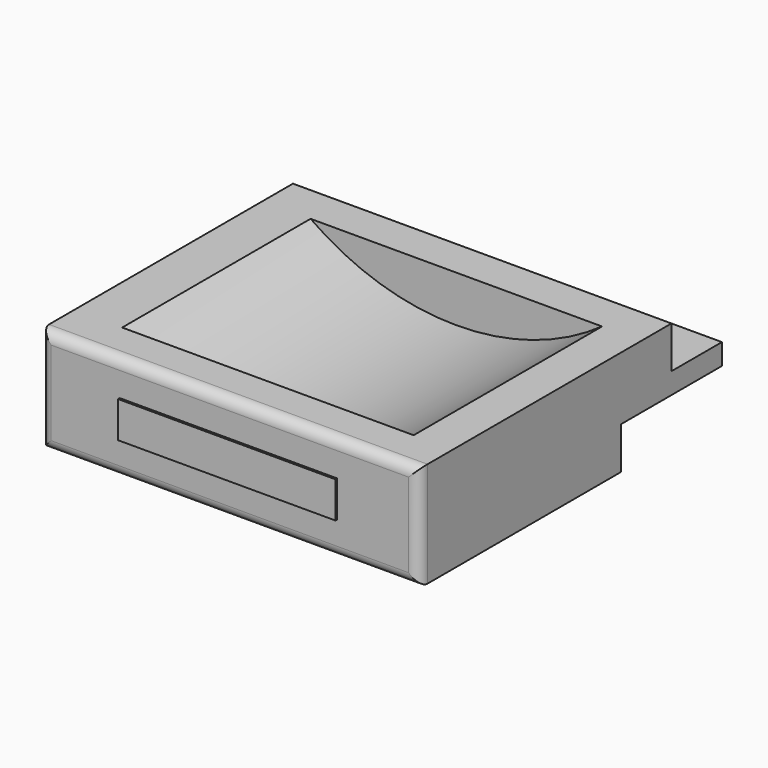
from build123d import *

# Parameters (mm, degrees)
F0_W      = 457.2
F0_H      = 127
F1_DEPTH  = 457.2
F2_R      = 12.7
F3_W      = 457.2
F3_H      = 76.2
F4_DEPTH  = 50.8
F6_START  = -50.8
F6_DEPTH  = 284.48
F7_W      = 262.5275105238
F7_H      = 43.7741912901
F8_DEPTH  = 2.54
F9_W      = 457.2
F9_H      = 152.4
F10_DEPTH = 50.8


with BuildPart() as f1:
    # F0 (on Front) → F1 (new body)
    with BuildSketch(Plane.XZ):
        with Locations((-5.2937921137, -6.7845043319)):
            Rectangle(F0_W, F0_H)
    extrude(amount=F1_DEPTH)

    # F2
    f2_edges = [f1.edges().sort_by_distance(p)[0] for p in [
        (-5.293792, -457.2, 56.715496),
        (-233.893792, -457.2, -6.784504),
        (-5.293792, -457.2, -70.284504),
        (223.306208, -457.2, -6.784504),
    ]]
    fillet(f2_edges, radius=F2_R)

    # F3 (on face) → F4 (cut)
    with BuildSketch(Plane.XY.offset(56.7154956681)):
        with Locations((-5.2937921137, -38.1)):
            Rectangle(F3_W, F3_H)
    extrude(amount=-F4_DEPTH, mode=Mode.SUBTRACT)

    # F5 (on face) → F6 (cut)
    with BuildSketch(Plane.XZ.offset(457.2).offset(F6_START)):
        with BuildLine():
            ThreePointArc((156.5500356786, 44.0154956681), (265.1598488411, 155.2294544651), (304.8, 305.5401146412))
            ThreePointArc((304.8, 305.5401146412), (-150.3106601761, 570.6999634823), (-156.5500356786, 44.0154956681))
            Line((-156.5500356786, 44.0154956681), (156.5500356786, 44.0154956681))
        make_face()
        with BuildLine():
            Line((156.5500356786, 44.0154956681), (-156.5500356786, 44.0154956681))
            ThreePointArc((-156.5500356786, 44.0154956681), (0, 0.7401146412), (156.5500356786, 44.0154956681))
        make_face()
    extrude(amount=-F6_DEPTH, mode=Mode.SUBTRACT)

    # F9 (on face) → F10 (cut)
    with BuildSketch(Plane(origin=(0, 0, -70.2845043319), x_dir=(1, 0, 0), z_dir=(0, 0, -1))):
        with Locations((-5.2937921137, 76.2)):
            Rectangle(F9_W, F9_H)
    extrude(amount=-F10_DEPTH, mode=Mode.SUBTRACT)


with BuildPart() as f8:
    # F7 (on face) → F8 (new body)
    with BuildSketch(Plane.XZ.offset(457.2)):
        with Locations((-6.9943666458, -7.2637684643)):
            Rectangle(F7_W, F7_H)
    extrude(amount=F8_DEPTH)


solid = Compound([f1.part, f8.part])
